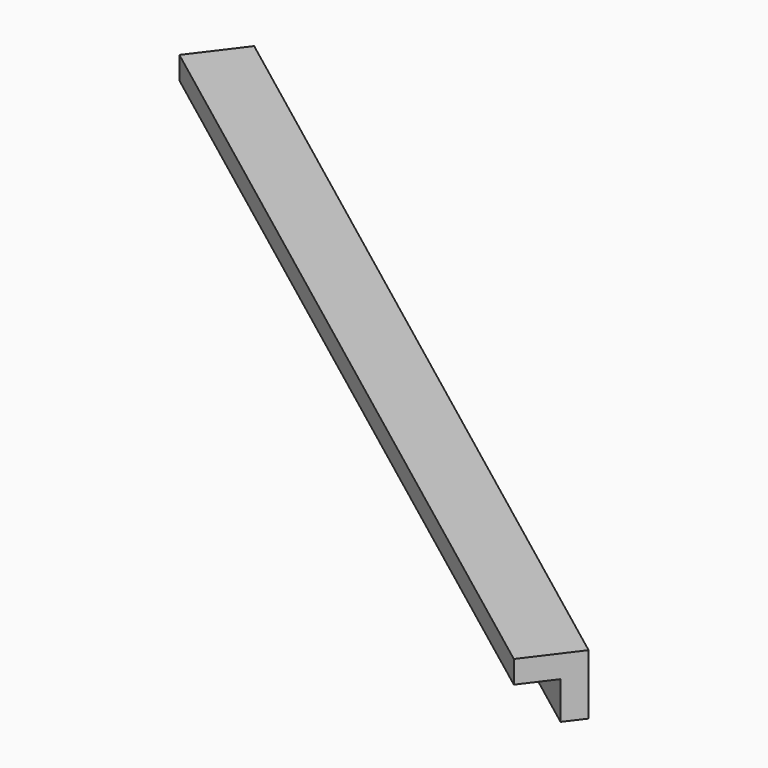
from build123d import *

# Parameters (mm, degrees)
BOX127_W               = 0.8
BOX127_H               = 14
BOX127_DEPTH           = 0.8
BOX128_W               = 0.8
BOX128_H               = 14
BOX128_DEPTH           = 0.8
CUT067_PLACEMENT_ANGLE = 53


with BuildPart() as cubo127:
    # Box127 → Box127 (new body)
    with BuildSketch(Plane.XY):
        with Locations((0.4, 7)):
            Rectangle(BOX127_W, BOX127_H)
    extrude(amount=BOX127_DEPTH)


with BuildPart() as obj1:
    # Box128 → Box128 (new body)
    with BuildSketch(Plane(origin=(0.3, 0, 0.3), x_dir=(1, 0, 0), z_dir=(0, 0, 1))):
        with Locations((0.4, 7)):
            Rectangle(BOX128_W, BOX128_H)
    extrude(amount=BOX128_DEPTH)

    # Cut067: cut Cubo127
    add(cubo127.part, mode=Mode.SUBTRACT)


with BuildPart() as obj1_1:
    # Cut067 placement: moved
    add(obj1.part.moved(Location((-175.4, 133.4, -1.45))).rotate(Axis((-175.4, 133.4, -1.45), (0, 0, 1)), CUT067_PLACEMENT_ANGLE))


solid = obj1_1.part
